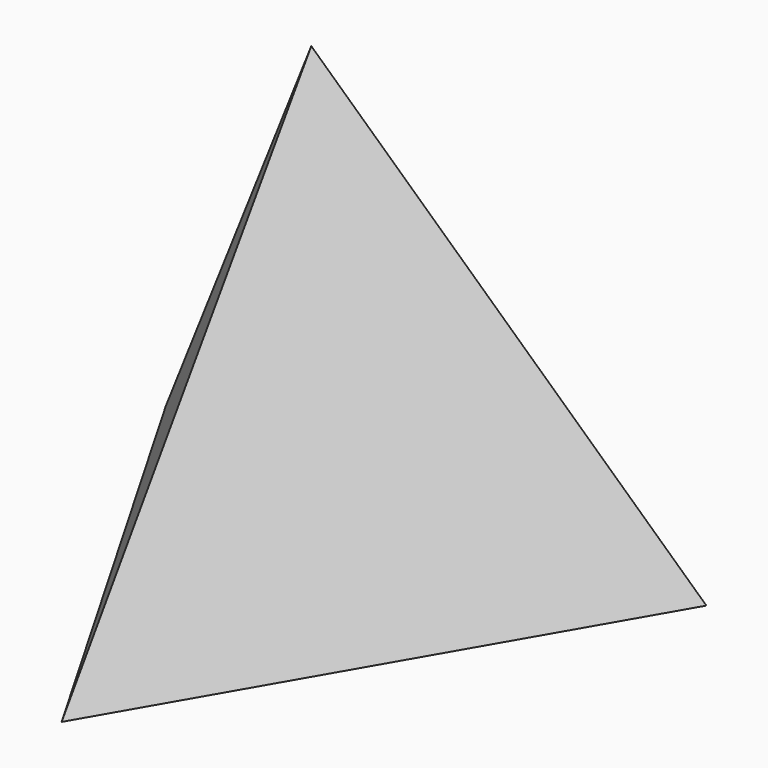
from build123d import *


with BuildPart() as f2:
    # F0 (on Top) → F2 section 0
    with BuildSketch(Plane.XY, mode=Mode.PRIVATE) as f2_s0:
        Polygon((38.1, 21.997045), (-38.1, 21.997045), (0, -43.994091), align=None)
    loft([f2_s0.sketch, Vertex(0, 0, 65.9892)])


solid = f2.part
